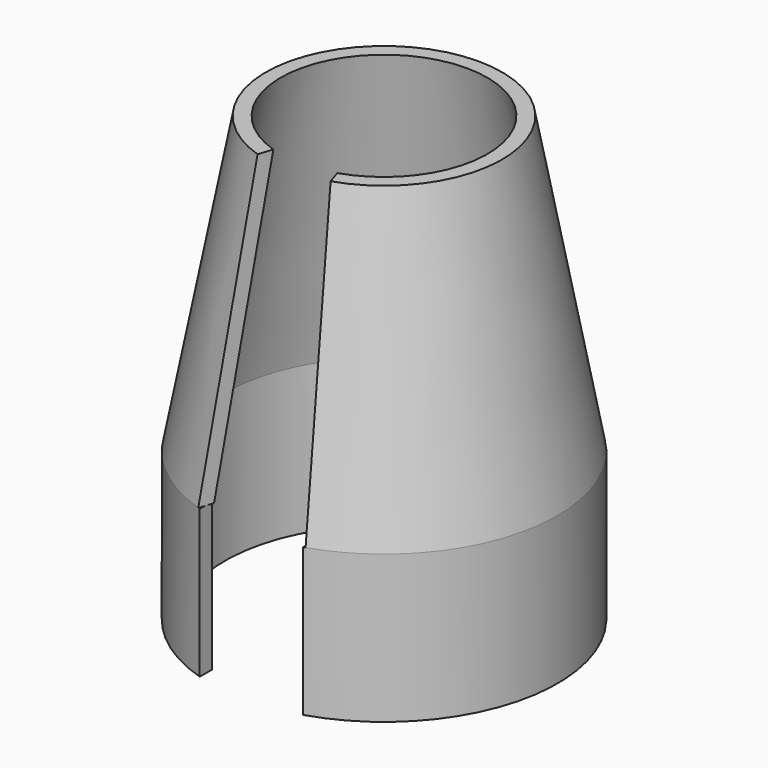
from build123d import *

# Parameters (mm, degrees)
F1_DEPTH      = 10
F3_ANGLE_BACK = 252
F3_ANGLE      = 324


with BuildPart() as f1:
    # F0 (on Top) → F1 (new body)
    with BuildSketch(Plane.XY):
        with BuildLine():
            ThreePointArc((-3.5, -10.1642756751), (0, 10.75), (3.5, -10.1642756751))
            Line((3.5, -10.1642756751), (3.5, -11.2166171371))
            ThreePointArc((3.5, -11.2166171371), (0, 11.75), (-3.5, -11.2166171371))
            Line((-3.5, -11.2166171371), (-3.5, -10.1642756751))
        make_face()
    extrude(amount=F1_DEPTH)

    # F2 (on Front) → F3 (revolve)
    with BuildSketch(Plane.XZ, mode=Mode.PRIVATE) as f3_sk:
        Polygon((-11.75, 10), (-10.75, 10), (-7, 30), (-8, 30), align=None)
    revolve(f3_sk.sketch.rotate(Axis((0, 0, 31.3703455031), (0, 0, 1)), -F3_ANGLE_BACK), axis=Axis((0, 0, 31.3703455031), (0, 0, 1)), revolution_arc=F3_ANGLE)


solid = f1.part
